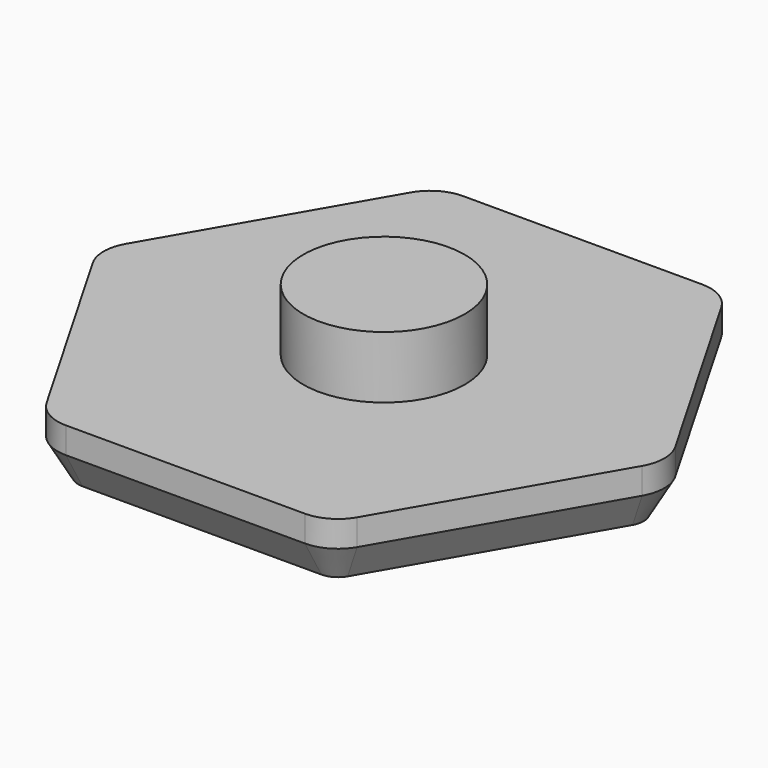
from build123d import *

# Parameters (mm, degrees)
F1_R     = 3.9
F2_DEPTH = 3
F3_R     = 3.9
F4_DEPTH = 6
F5_R     = 2
F6_SIZE2 = 1.7320508076
F6_SIZE  = 1


with BuildPart() as f2:
    # F1 (on face) → F2 (new body)
    with BuildSketch(Plane.XY):
        Polygon((-6.9282032303, -12), (6.9282032303, -12), (13.8564064606, 0), (6.9282032303, 12), (-6.9282032303, 12), (-13.8564064606, 0), align=None)
        Circle(F1_R, mode=Mode.SUBTRACT)
    extrude(amount=F2_DEPTH)

    # F3 (on Top) → F4 (join)
    with BuildSketch(Plane.XY):
        Circle(F3_R)
    extrude(amount=F4_DEPTH)

    # F5
    f5_edges = [f2.edges().sort_by_distance(p)[0] for p in [
        (13.856406, 0, 1.5),
        (6.928203, -12, 1.5),
        (-6.928203, -12, 1.5),
        (-13.856406, 0, 1.5),
        (-6.928203, 12, 1.5),
        (6.928203, 12, 1.5),
    ]]
    fillet(f5_edges, radius=F5_R)

    # F6
    f6_edges = [f2.edges().sort_by_distance(p)[0] for p in [
        (0, -12, 0),
    ]]
    f6_side = f2.faces().sort_by_distance((0, 0, 0))[0]
    chamfer(f6_edges, length=F6_SIZE, length2=F6_SIZE2, reference=f6_side)


solid = f2.part
